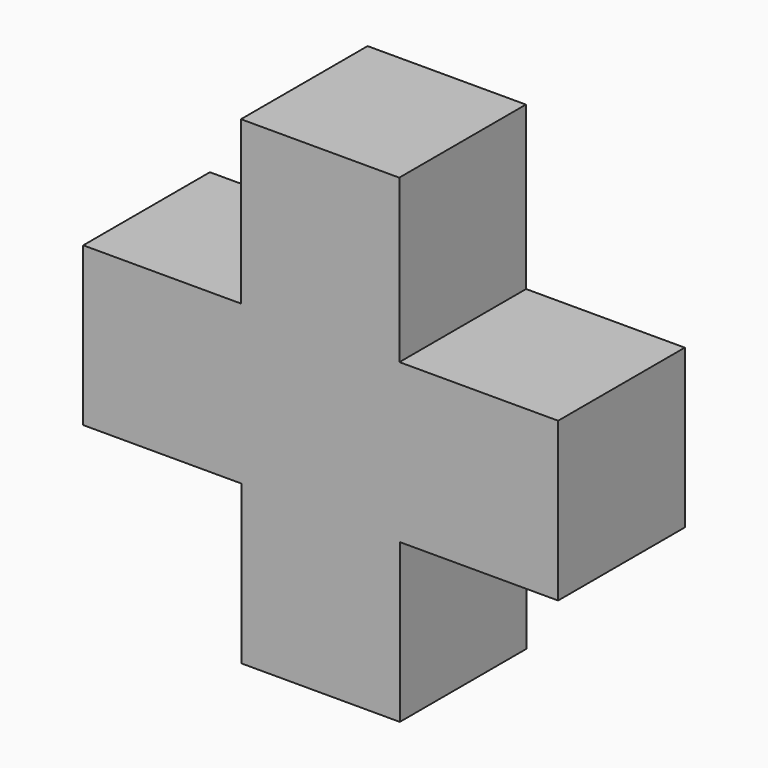
from build123d import *

# Parameters (mm, degrees)
F1_DEPTH = 9.525


with BuildPart() as f1:
    # F0 (on Front) → F1 (new body, symmetric)
    with BuildSketch(Plane.XZ):
        Polygon((-9.525, -9.525), (-9.525, 9.525), (9.5019432202, 9.525), (9.5019384202, 9.528965807), (-9.525, 9.528965807), (-9.5480615798, 9.528965807), align=None)
        Polygon((9.5019432202, 9.525), (-9.525, 9.525), (-9.525, -9.525), (9.525, -9.525), align=None)
        Polygon((9.525, 9.525), (9.5019432202, 9.525), (9.525, -9.525), align=None)
        Polygon((-9.525, 9.528965807), (9.5019384202, 9.528965807), (9.5017451374, 9.6886601817), (-9.525, 9.8479651451), align=None)
        Polygon((9.5017451374, 9.6886601817), (9.5019384202, 9.528965807), (9.525, 9.528965807), (9.525, 9.688465476), align=None)
        Polygon((-9.5711183596, 28.578965807), (-9.5480615798, 9.528965807), (-9.525, 9.528965807), (-9.525, 9.8479651451), (-9.525, 28.578965807), align=None)
        Polygon((-28.575, 9.528965807), (-9.5480615798, 9.528965807), (-9.5711183596, 28.578965807), (-28.575, 28.578965807), align=None)
        Polygon((9.4788816404, 28.578965807), (9.5017451374, 9.6886601817), (9.525, 9.688465476), (9.525, 9.8479651451), (9.525, 28.578965807), align=None)
        Polygon((-9.525, 9.8479651451), (9.5017451374, 9.6886601817), (9.4788816404, 28.578965807), (-9.525, 28.578965807), align=None)
        Polygon((9.525, 9.688465476), (9.525, 9.528965807), (28.575, 9.528965807), align=None)
        Polygon((-9.5717046665, 29.06338498), (-9.5711183596, 28.578965807), (-9.525, 28.578965807), (9.4788816404, 28.578965807), (9.4552385536, 48.11338498), (9.4552385536, 29.06338498), align=None)
        Polygon((9.525, 9.8479651451), (9.525, 9.688465476), (28.575, 9.528965807), (28.575, 28.578965807), (9.525, 28.578965807), align=None)
        Polygon((-9.5947614464, 48.11338498), (-9.5717046665, 29.06338498), (9.4552385536, 29.06338498), (9.4552385536, 48.11338498), align=None)
        Polygon((-9.5947614464, 29.06338498), (-9.5717046665, 29.06338498), (-9.5947614464, 48.11338498), align=None)
    extrude(amount=F1_DEPTH, both=True)


solid = f1.part
